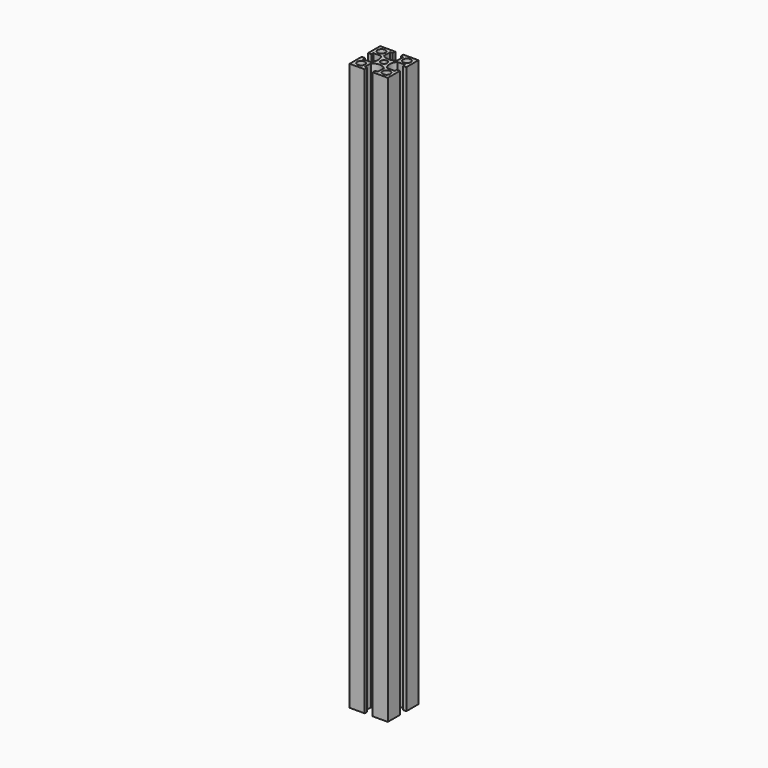
from build123d import *

# Parameters (mm, degrees)
F0_R     = 3
F0_R_2   = 2.5
F1_DEPTH = 445


with BuildPart() as f1:
    # F0 (on Top) → F1 (new body)
    with BuildSketch(Plane.XY):
        with BuildLine():
            Line((-15, 15), (-15, 3.15))
            Line((-15, 3.15), (-12.5, 3.15))
            Line((-12.5, 3.15), (-12.5, 5.15))
            Line((-12.5, 5.15), (-6.547707, 5.15))
            ThreePointArc((-6.547707, 5.15), (-4.5, 0), (-6.547707, -5.15))
            Line((-6.547707, -5.15), (-12.5, -5.15))
            Line((-12.5, -5.15), (-12.5, -3.15))
            Line((-12.5, -3.15), (-15, -3.15))
            Line((-15, -3.15), (-15, -15))
            Line((-15, -15), (-3.15, -15))
            Line((-3.15, -15), (-3.15, -12.5))
            Line((-3.15, -12.5), (-5.15, -12.5))
            Line((-5.15, -12.5), (-5.15, -6.547707))
            ThreePointArc((-5.15, -6.547707), (0, -4.5), (5.15, -6.547707))
            Line((5.15, -6.547707), (5.15, -12.5))
            Line((5.15, -12.5), (3.15, -12.5))
            Line((3.15, -12.5), (3.15, -15))
            Line((3.15, -15), (15, -15))
            Line((15, -15), (15, -3.15))
            Line((15, -3.15), (12.5, -3.15))
            Line((12.5, -3.15), (12.5, -5.15))
            Line((12.5, -5.15), (6.547707, -5.15))
            ThreePointArc((6.547707, -5.15), (4.5, 0), (6.547707, 5.15))
            Line((6.547707, 5.15), (12.5, 5.15))
            Line((12.5, 5.15), (12.5, 3.15))
            Line((12.5, 3.15), (15, 3.15))
            Line((15, 3.15), (15, 15))
            Line((15, 15), (3.15, 15))
            Line((3.15, 15), (3.15, 12.5))
            Line((3.15, 12.5), (5.15, 12.5))
            Line((5.15, 12.5), (5.15, 6.547707))
            ThreePointArc((5.15, 6.547707), (0, 4.5), (-5.15, 6.547707))
            Line((-5.15, 6.547707), (-5.15, 12.5))
            Line((-5.15, 12.5), (-3.15, 12.5))
            Line((-3.15, 12.5), (-3.15, 15))
            Line((-3.15, 15), (-15, 15))
        make_face()
        with Locations((-10, -10)):
            Circle(F0_R, mode=Mode.SUBTRACT)
        with Locations((10, -10)):
            Circle(F0_R, mode=Mode.SUBTRACT)
        with Locations((-10, 10)):
            Circle(F0_R, mode=Mode.SUBTRACT)
        Circle(F0_R_2, mode=Mode.SUBTRACT)
        with Locations((10, 10)):
            Circle(F0_R, mode=Mode.SUBTRACT)
    extrude(amount=F1_DEPTH)


solid = f1.part
